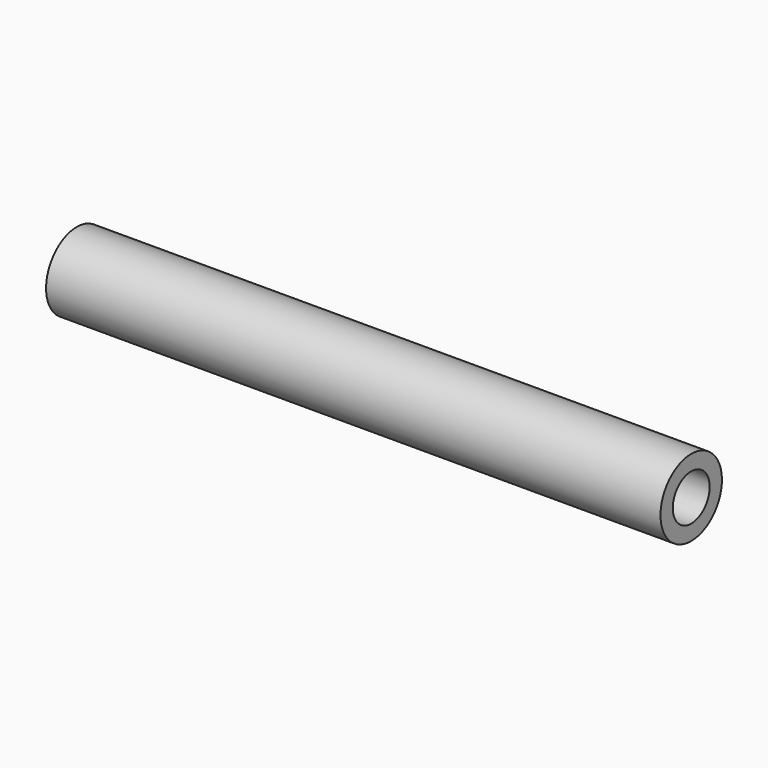
from build123d import *

# Parameters (mm, degrees)
CYLINDER001_R           = 1.5
CYLINDER001_DEPTH       = 44
CYLINDER001_PITCH_ANGLE = 90
CYLINDER_R              = 2.5
CYLINDER_DEPTH          = 40
CYLINDER_PITCH_ANGLE    = 90


with BuildPart() as cilindro001:
    # Cylinder001 → Cylinder001 (new body)
    with BuildSketch(Plane.XY):
        Circle(CYLINDER001_R)
    extrude(amount=CYLINDER001_DEPTH)


with BuildPart() as cilindro001_1:
    # Cylinder001 pitch: moved
    add(cilindro001.part.rotate(Axis((0, 0, 0), (0, 1, 0)), CYLINDER001_PITCH_ANGLE))


with BuildPart() as cilindro001_2:
    # Cylinder001 placement: moved
    add(cilindro001_1.part.moved(Location((-2, 0, 0))))


with BuildPart() as soporte1:
    # Cylinder → Cylinder (new body)
    with BuildSketch(Plane.XY):
        Circle(CYLINDER_R)
    extrude(amount=CYLINDER_DEPTH)


with BuildPart() as soporte1_1:
    # Cylinder pitch: moved
    add(soporte1.part.rotate(Axis((0, 0, 0), (0, 1, 0)), CYLINDER_PITCH_ANGLE))


with BuildPart() as soporte1_2:
    # Cylinder placement: moved
    add(soporte1_1.part)

    # Cut: cut Cilindro001
    add(cilindro001_2.part, mode=Mode.SUBTRACT)


with BuildPart() as soporte1_3:
    # Cut placement: moved
    add(soporte1_2.part.moved(Location((235, 175.5, 291))))


solid = soporte1_3.part
